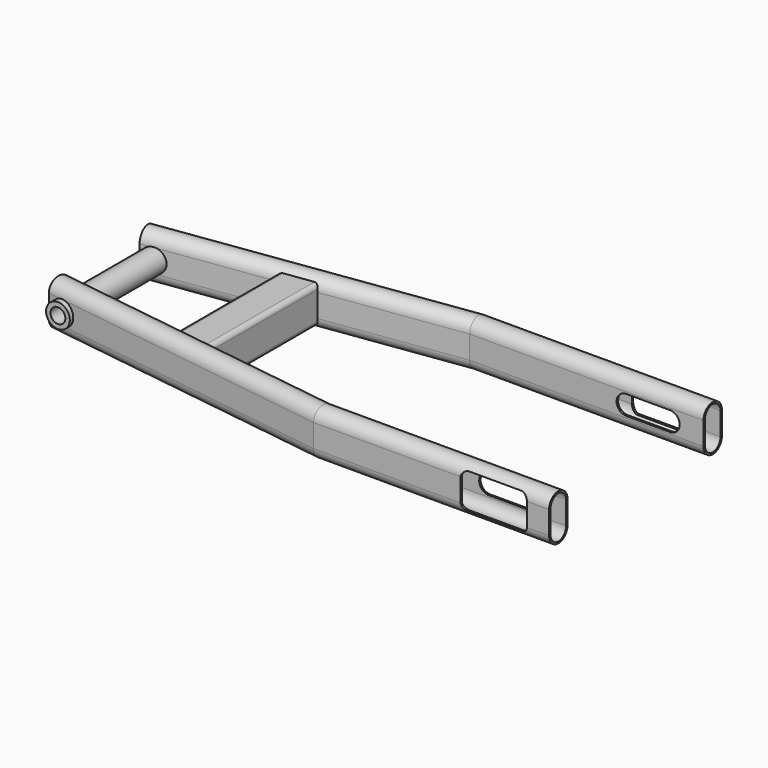
from build123d import *

# Parameters (mm, degrees)
F4_DEPTH  = 2.7
F6_DEPTH  = 3
F8_DEPTH  = 49
F9_R      = 8
F10_DEPTH = 50
F11_R     = 5
F12_DEPTH = 50.0010001


with BuildPart() as f2:
    # F2: sweep along a path in F0
    with BuildLine(Plane.XY) as f2_path:
        Line((0, 65), (-158.03, 65))
        Line((-158.03, 65), (-358.4206463905, 36.8369312897))
    # F1 (on Right) → F2 (sweep)
    with BuildSketch(Plane.YZ):
        with BuildLine():
            ThreePointArc((72.75, 7.75), (65, 15.5), (57.25, 7.75))
            Line((57.25, 7.75), (57.25, -7.75))
            ThreePointArc((57.25, -7.75), (65, -15.5), (72.75, -7.75))
            Line((72.75, -7.75), (72.75, 7.75))
        make_face()
        with BuildLine():
            ThreePointArc((58.45, 7.75), (65, 14.3), (71.55, 7.75))
            Line((71.55, 7.75), (71.55, -7.75))
            ThreePointArc((71.55, -7.75), (65, -14.3), (58.45, -7.75))
            Line((58.45, -7.75), (58.45, 7.75))
        make_face(mode=Mode.SUBTRACT)
    sweep(path=f2_path.line, transition=Transition.RIGHT)

    # F3 (on face) → F4 (cut)
    with BuildSketch(Plane.XZ.offset(-57.25)):
        with BuildLine():
            Line((-52.04, -6.5), (-22.54, -6.5))
            ThreePointArc((-22.54, -6.5), (-16.04, 0), (-22.54, 6.5))
            Line((-22.54, 6.5), (-52.04, 6.5))
            ThreePointArc((-52.04, 6.5), (-58.54, 0), (-52.04, -6.5))
        make_face()
    extrude(amount=-F4_DEPTH, mode=Mode.SUBTRACT)

    # F5 (on face) → F6 (cut)
    with BuildSketch(Plane(origin=(0, 72.75, 0), x_dir=(-1, 0, 0), z_dir=(0, 1, 0))):
        with BuildLine():
            Line((14.8165700167, -7.75), (59.7034299833, -7.75))
            ThreePointArc((59.7034299833, -7.75), (59.745837438, -7.3760652094), (59.76, -7))
            Line((59.76, -7), (59.76, 7))
            ThreePointArc((59.76, 7), (59.745837438, 7.3760652094), (59.7034299833, 7.75))
            Line((59.7034299833, 7.75), (14.8165700167, 7.75))
            ThreePointArc((14.8165700167, 7.75), (14.774162562, 7.3760652094), (14.76, 7))
            Line((14.76, 7), (14.76, -7))
            ThreePointArc((14.76, -7), (14.774162562, -7.3760652094), (14.8165700167, -7.75))
        make_face()
        with BuildLine():
            Line((14.8165700167, 7.75), (59.7034299833, 7.75))
            ThreePointArc((59.7034299833, 7.75), (58.0196012026, 10.791437722), (54.76, 12))
            Line((54.76, 12), (19.76, 12))
            ThreePointArc((19.76, 12), (16.5003987974, 10.791437722), (14.8165700167, 7.75))
        make_face()
        with BuildLine():
            Line((19.76, -12), (54.76, -12))
            ThreePointArc((54.76, -12), (58.0196012026, -10.791437722), (59.7034299833, -7.75))
            Line((59.7034299833, -7.75), (14.8165700167, -7.75))
            ThreePointArc((14.8165700167, -7.75), (16.5003987974, -10.791437722), (19.76, -12))
        make_face()
    extrude(amount=-F6_DEPTH, mode=Mode.SUBTRACT)

    # F7 (on Front) → F8 (join)
    with BuildSketch(Plane.XZ):
        with BuildLine():
            Line((-271.689237923, -12.5), (-252.689237923, -12.5))
            ThreePointArc((-252.689237923, -12.5), (-250.5679175794, -11.6213203436), (-249.689237923, -9.5))
            Line((-249.689237923, -9.5), (-249.689237923, 9.5))
            ThreePointArc((-249.689237923, 9.5), (-250.5679175794, 11.6213203436), (-252.689237923, 12.5))
            Line((-252.689237923, 12.5), (-271.689237923, 12.5))
            ThreePointArc((-271.689237923, 12.5), (-273.8105582665, 11.6213203436), (-274.689237923, 9.5))
            Line((-274.689237923, 9.5), (-274.689237923, -9.5))
            ThreePointArc((-274.689237923, -9.5), (-273.8105582665, -11.6213203436), (-271.689237923, -12.5))
        make_face()
        with BuildLine():
            Line((-271.689237923, 10.9), (-252.689237923, 10.9))
            ThreePointArc((-252.689237923, 10.9), (-251.6992884293, 10.4899494937), (-251.289237923, 9.5))
            Line((-251.289237923, 9.5), (-251.289237923, -9.5))
            ThreePointArc((-251.289237923, -9.5), (-251.6992884293, -10.4899494937), (-252.689237923, -10.9))
            Line((-252.689237923, -10.9), (-271.689237923, -10.9))
            ThreePointArc((-271.689237923, -10.9), (-272.6791874166, -10.4899494937), (-273.089237923, -9.5))
            Line((-273.089237923, -9.5), (-273.089237923, 9.5))
            ThreePointArc((-273.089237923, 9.5), (-272.6791874166, 10.4899494937), (-271.689237923, 10.9))
        make_face(mode=Mode.SUBTRACT)
    extrude(amount=-F8_DEPTH)

    # F9 (on Front) → F10 (join)
    with BuildSketch(Plane.XZ):
        with Locations((-349.019237923, 0)):
            Circle(F9_R)
    extrude(amount=-F10_DEPTH)

    # F11 (on face) → F12 (cut, through all)
    with BuildSketch(Plane(origin=(0, 50, 0), x_dir=(-1, 0, 0), z_dir=(0, 1, 0))):
        with Locations((349.019237923, 0)):
            Circle(F11_R)
    extrude(amount=-F12_DEPTH, mode=Mode.SUBTRACT)

    # F13: F2 across plane


with BuildPart() as f2_1:
    add(f2.part)
    add(f2.part.mirror(Plane.XZ))


solid = f2_1.part
